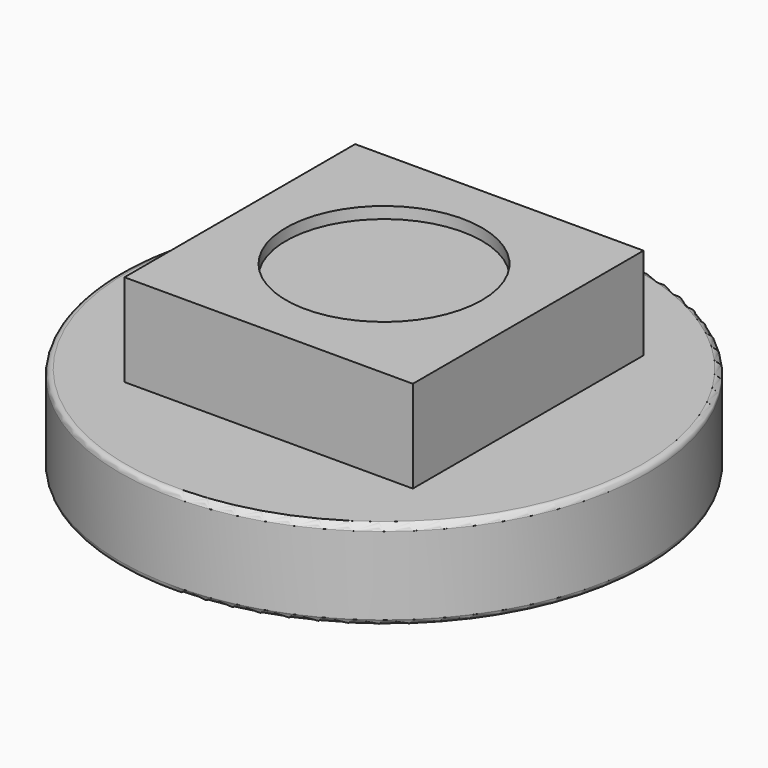
from build123d import *

# Parameters (mm, degrees)
SKETCH_R     = 4.58
PAD_DEPTH    = 1.55
SKETCH001_W  = 5
SKETCH001_H  = 5
PAD001_DEPTH = 1.6
SKETCH002_R  = 1.7
POCKET_DEPTH = 0.2
FILLET_R     = 0.1


with BuildPart() as part:
    # Sketch → Pad (new body)
    with BuildSketch(Plane.XY):
        Circle(SKETCH_R)
    extrude(amount=PAD_DEPTH)

    # Sketch001 (on Face3 of Pad) → Pad001 (join)
    with BuildSketch(Plane.XY.offset(1.55)):
        Rectangle(SKETCH001_W, SKETCH001_H)
    extrude(amount=PAD001_DEPTH)

    # Sketch002 (on Face8 of Pad001) → Pocket (cut)
    with BuildSketch(Plane.XY.offset(3.15)):
        Circle(SKETCH002_R)
    extrude(amount=-POCKET_DEPTH, mode=Mode.SUBTRACT)

    # Fillet
    fillet_edges = [part.edges().sort_by_distance(p)[0] for p in [
        (-4.58, 0, 0),
        (-4.58, 0, 1.55),
    ]]
    fillet(fillet_edges, radius=FILLET_R)


solid = part.part
